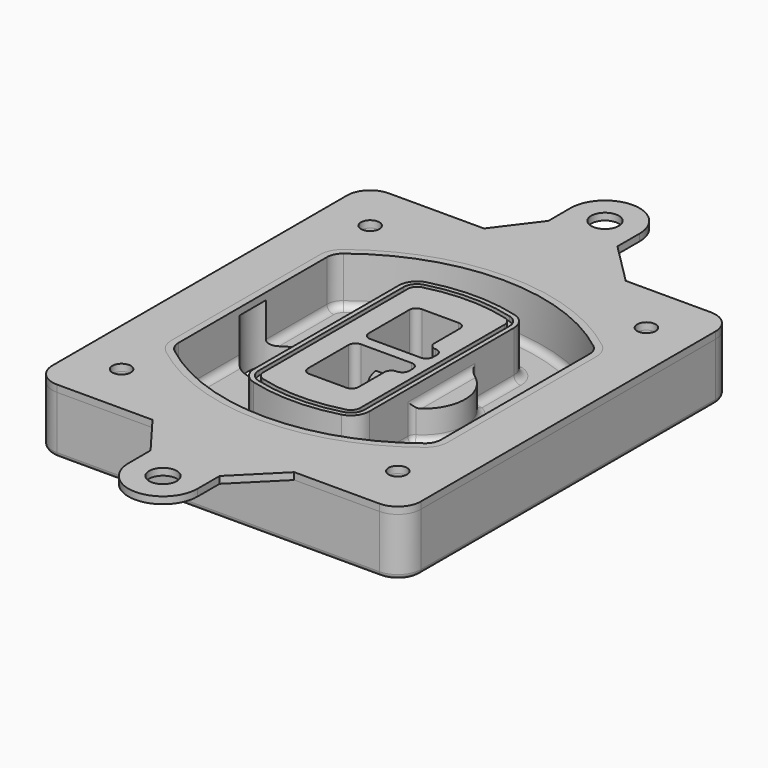
from build123d import *

# Parameters (mm, degrees)
F0_R      = 4
F1_DEPTH  = 25
F2_DEPTH  = 3
F3_DEPTH  = 18
F5_DEPTH  = 21
F6_DEPTH  = 2
F8_DEPTH  = 20
F9_DEPTH  = 16
F10_DEPTH = 25
F7_R      = 6
F7_R_2    = 4
F11_DEPTH = 6
F13_DEPTH = 9
F14_R     = 3
F15_R     = 2
F16_R     = 4
F16_R_2   = 6
F17_DEPTH = 3


with BuildPart() as f1:
    # F0 (on Top) → F1 (new body)
    with BuildSketch(Plane.XY):
        with BuildLine():
            ThreePointArc((-80, -80), (-77.0710678119, -87.0710678119), (-70, -90))
            Line((-70, -90), (70, -90))
            ThreePointArc((70, -90), (77.0710678119, -87.0710678119), (80, -80))
            Line((80, -80), (80, 80))
            ThreePointArc((80, 80), (77.0710678119, 87.0710678119), (70, 90))
            Line((70, 90), (-70, 90))
            ThreePointArc((-70, 90), (-77.0710678119, 87.0710678119), (-80, 80))
            Line((-80, 80), (-80, -80))
        make_face()
        with Locations((-60, -67.5)):
            Circle(F0_R, mode=Mode.SUBTRACT)
        with Locations((60, -67.5)):
            Circle(F0_R, mode=Mode.SUBTRACT)
        with Locations((-60, 67.5)):
            Circle(F0_R, mode=Mode.SUBTRACT)
        with BuildLine():
            ThreePointArc((-64, 40.2934422872), (-62.5820384798, 46.4328484224), (-58.6153846154, 51.3286200352))
            ThreePointArc((-58.6153846154, 51.3286200352), (0, 71.5), (58.6153846154, 51.3286200352))
            ThreePointArc((58.6153846154, 51.3286200352), (62.5820384798, 46.4328484224), (64, 40.2934422872))
            Line((64, 40.2934422872), (64, -40.2934422872))
            ThreePointArc((64, -40.2934422872), (62.5820384798, -46.4328484224), (58.6153846154, -51.3286200352))
            ThreePointArc((58.6153846154, -51.3286200352), (0, -71.5), (-58.6153846154, -51.3286200352))
            ThreePointArc((-58.6153846154, -51.3286200352), (-62.5820384798, -46.4328484224), (-64, -40.2934422872))
            Line((-64, -40.2934422872), (-64, 40.2934422872))
        make_face(mode=Mode.SUBTRACT)
        with Locations((60, 67.5)):
            Circle(F0_R, mode=Mode.SUBTRACT)
        with BuildLine():
            ThreePointArc((58.6153846154, 51.3286200352), (0, 71.5), (-58.6153846154, 51.3286200352))
            ThreePointArc((-58.6153846154, 51.3286200352), (-62.5820384798, 46.4328484224), (-64, 40.2934422872))
            Line((-64, 40.2934422872), (-64, -40.2934422872))
            ThreePointArc((-64, -40.2934422872), (-62.5820384798, -46.4328484224), (-58.6153846154, -51.3286200352))
            ThreePointArc((-58.6153846154, -51.3286200352), (0, -71.5), (58.6153846154, -51.3286200352))
            ThreePointArc((58.6153846154, -51.3286200352), (62.5820384798, -46.4328484224), (64, -40.2934422872))
            Line((64, -40.2934422872), (64, 40.2934422872))
            ThreePointArc((64, 40.2934422872), (62.5820384798, 46.4328484224), (58.6153846154, 51.3286200352))
        make_face()
        with BuildLine():
            Line((-60, -40.2934422872), (-60, 40.2934422872))
            ThreePointArc((-60, 40.2934422872), (-58.9871703427, 44.6787323838), (-56.1538461538, 48.1757121072))
            ThreePointArc((-56.1538461538, 48.1757121072), (0, 67.5), (56.1538461538, 48.1757121072))
            ThreePointArc((56.1538461538, 48.1757121072), (58.9871703427, 44.6787323838), (60, 40.2934422872))
            Line((60, 40.2934422872), (60, -40.2934422872))
            ThreePointArc((60, -40.2934422872), (58.9871703427, -44.6787323838), (56.1538461538, -48.1757121072))
            ThreePointArc((56.1538461538, -48.1757121072), (0, -67.5), (-56.1538461538, -48.1757121072))
            ThreePointArc((-56.1538461538, -48.1757121072), (-58.9871703427, -44.6787323838), (-60, -40.2934422872))
        make_face(mode=Mode.SUBTRACT)
        with BuildLine():
            ThreePointArc((-56.1538461538, 48.1757121072), (-58.9871703427, 44.6787323838), (-60, 40.2934422872))
            Line((-60, 40.2934422872), (-60, -40.2934422872))
            ThreePointArc((-60, -40.2934422872), (-58.9871703427, -44.6787323838), (-56.1538461538, -48.1757121072))
            ThreePointArc((-56.1538461538, -48.1757121072), (0, -67.5), (56.1538461538, -48.1757121072))
            ThreePointArc((56.1538461538, -48.1757121072), (58.9871703427, -44.6787323838), (60, -40.2934422872))
            Line((60, -40.2934422872), (60, 40.2934422872))
            ThreePointArc((60, 40.2934422872), (58.9871703427, 44.6787323838), (56.1538461538, 48.1757121072))
            ThreePointArc((56.1538461538, 48.1757121072), (0, 67.5), (-56.1538461538, 48.1757121072))
        make_face()
        with BuildLine():
            ThreePointArc((54.3076923077, 45.8110311612), (56.2910192399, 43.3631453548), (57, 40.2934422872))
            Line((57, 40.2934422872), (57, -40.2934422872))
            ThreePointArc((57, -40.2934422872), (56.2910192399, -43.3631453548), (54.3076923077, -45.8110311612))
            ThreePointArc((54.3076923077, -45.8110311612), (0, -64.5), (-54.3076923077, -45.8110311612))
            ThreePointArc((-54.3076923077, -45.8110311612), (-56.2910192399, -43.3631453548), (-57, -40.2934422872))
            Line((-57, -40.2934422872), (-57, 40.2934422872))
            ThreePointArc((-57, 40.2934422872), (-56.2910192399, 43.3631453548), (-54.3076923077, 45.8110311612))
            ThreePointArc((-54.3076923077, 45.8110311612), (0, 64.5), (54.3076923077, 45.8110311612))
        make_face(mode=Mode.SUBTRACT)
        with BuildLine():
            Line((57, -40.2934422872), (57, 40.2934422872))
            ThreePointArc((57, 40.2934422872), (56.2910192399, 43.3631453548), (54.3076923077, 45.8110311612))
            ThreePointArc((54.3076923077, 45.8110311612), (0, 64.5), (-54.3076923077, 45.8110311612))
            ThreePointArc((-54.3076923077, 45.8110311612), (-56.2910192399, 43.3631453548), (-57, 40.2934422872))
            Line((-57, 40.2934422872), (-57, -40.2934422872))
            ThreePointArc((-57, -40.2934422872), (-56.2910192399, -43.3631453548), (-54.3076923077, -45.8110311612))
            ThreePointArc((-54.3076923077, -45.8110311612), (0, -64.5), (54.3076923077, -45.8110311612))
            ThreePointArc((54.3076923077, -45.8110311612), (56.2910192399, -43.3631453548), (57, -40.2934422872))
        make_face()
    extrude(amount=-F1_DEPTH)

    # F0 (on Top) → F2 (join)
    with BuildSketch(Plane.XY):
        with BuildLine():
            ThreePointArc((-56.1538461538, 48.1757121072), (-58.9871703427, 44.6787323838), (-60, 40.2934422872))
            Line((-60, 40.2934422872), (-60, -40.2934422872))
            ThreePointArc((-60, -40.2934422872), (-58.9871703427, -44.6787323838), (-56.1538461538, -48.1757121072))
            ThreePointArc((-56.1538461538, -48.1757121072), (0, -67.5), (56.1538461538, -48.1757121072))
            ThreePointArc((56.1538461538, -48.1757121072), (58.9871703427, -44.6787323838), (60, -40.2934422872))
            Line((60, -40.2934422872), (60, 40.2934422872))
            ThreePointArc((60, 40.2934422872), (58.9871703427, 44.6787323838), (56.1538461538, 48.1757121072))
            ThreePointArc((56.1538461538, 48.1757121072), (0, 67.5), (-56.1538461538, 48.1757121072))
        make_face()
        with BuildLine():
            ThreePointArc((54.3076923077, 45.8110311612), (56.2910192399, 43.3631453548), (57, 40.2934422872))
            Line((57, 40.2934422872), (57, -40.2934422872))
            ThreePointArc((57, -40.2934422872), (56.2910192399, -43.3631453548), (54.3076923077, -45.8110311612))
            ThreePointArc((54.3076923077, -45.8110311612), (0, -64.5), (-54.3076923077, -45.8110311612))
            ThreePointArc((-54.3076923077, -45.8110311612), (-56.2910192399, -43.3631453548), (-57, -40.2934422872))
            Line((-57, -40.2934422872), (-57, 40.2934422872))
            ThreePointArc((-57, 40.2934422872), (-56.2910192399, 43.3631453548), (-54.3076923077, 45.8110311612))
            ThreePointArc((-54.3076923077, 45.8110311612), (0, 64.5), (54.3076923077, 45.8110311612))
        make_face(mode=Mode.SUBTRACT)
    extrude(amount=F2_DEPTH)

    # F0 (on Top) → F3 (cut)
    with BuildSketch(Plane.XY):
        with BuildLine():
            Line((57, -40.2934422872), (57, 40.2934422872))
            ThreePointArc((57, 40.2934422872), (56.2910192399, 43.3631453548), (54.3076923077, 45.8110311612))
            ThreePointArc((54.3076923077, 45.8110311612), (0, 64.5), (-54.3076923077, 45.8110311612))
            ThreePointArc((-54.3076923077, 45.8110311612), (-56.2910192399, 43.3631453548), (-57, 40.2934422872))
            Line((-57, 40.2934422872), (-57, -40.2934422872))
            ThreePointArc((-57, -40.2934422872), (-56.2910192399, -43.3631453548), (-54.3076923077, -45.8110311612))
            ThreePointArc((-54.3076923077, -45.8110311612), (0, -64.5), (54.3076923077, -45.8110311612))
            ThreePointArc((54.3076923077, -45.8110311612), (56.2910192399, -43.3631453548), (57, -40.2934422872))
        make_face()
    extrude(amount=-F3_DEPTH, mode=Mode.SUBTRACT)

    # F4 (on face) → F5 (join, through all)
    with BuildSketch(Plane.XY.offset(3)):
        with BuildLine():
            ThreePointArc((-25, -39.2465276821), (-23.3511545998, -44.1109737193), (-19.0842911877, -46.9702398883))
            ThreePointArc((-19.0842911877, -46.9702398883), (0, -49.5), (19.0842911877, -46.9702398883))
            ThreePointArc((19.0842911877, -46.9702398883), (23.3511545998, -44.1109737193), (25, -39.2465276821))
            Line((25, -39.2465276821), (25, 39.2465276821))
            ThreePointArc((25, 39.2465276821), (23.3511545998, 44.1109737193), (19.0842911877, 46.9702398883))
            ThreePointArc((19.0842911877, 46.9702398883), (0, 49.5), (-19.0842911877, 46.9702398883))
            ThreePointArc((-19.0842911877, 46.9702398883), (-23.3511545998, 44.1109737193), (-25, 39.2465276821))
            Line((-25, 39.2465276821), (-25, -39.2465276821))
        make_face()
        with BuildLine():
            ThreePointArc((18.5632183908, 45.0393118368), (21.7633659499, 42.89486221), (23, 39.2465276821))
            Line((23, 39.2465276821), (23, -39.2465276821))
            ThreePointArc((23, -39.2465276821), (21.7633659499, -42.89486221), (18.5632183908, -45.0393118368))
            ThreePointArc((18.5632183908, -45.0393118368), (0, -47.5), (-18.5632183908, -45.0393118368))
            ThreePointArc((-18.5632183908, -45.0393118368), (-21.7633659499, -42.89486221), (-23, -39.2465276821))
            Line((-23, -39.2465276821), (-23, 39.2465276821))
            ThreePointArc((-23, 39.2465276821), (-21.7633659499, 42.89486221), (-18.5632183908, 45.0393118368))
            ThreePointArc((-18.5632183908, 45.0393118368), (0, 47.5), (18.5632183908, 45.0393118368))
        make_face(mode=Mode.SUBTRACT)
        with BuildLine():
            Line((23, -39.2465276821), (23, 39.2465276821))
            ThreePointArc((23, 39.2465276821), (21.7633659499, 42.89486221), (18.5632183908, 45.0393118368))
            ThreePointArc((18.5632183908, 45.0393118368), (0, 47.5), (-18.5632183908, 45.0393118368))
            ThreePointArc((-18.5632183908, 45.0393118368), (-21.7633659499, 42.89486221), (-23, 39.2465276821))
            Line((-23, 39.2465276821), (-23, -39.2465276821))
            ThreePointArc((-23, -39.2465276821), (-21.7633659499, -42.89486221), (-18.5632183908, -45.0393118368))
            ThreePointArc((-18.5632183908, -45.0393118368), (0, -47.5), (18.5632183908, -45.0393118368))
            ThreePointArc((18.5632183908, -45.0393118368), (21.7633659499, -42.89486221), (23, -39.2465276821))
        make_face()
        with BuildLine():
            ThreePointArc((18.0421455939, 43.1083837852), (20.1755772999, 41.6787507007), (21, 39.2465276821))
            Line((21, 39.2465276821), (21, -39.2465276821))
            ThreePointArc((21, -39.2465276821), (20.1755772999, -41.6787507007), (18.0421455939, -43.1083837852))
            ThreePointArc((18.0421455939, -43.1083837852), (0, -45.5), (-18.0421455939, -43.1083837852))
            ThreePointArc((-18.0421455939, -43.1083837852), (-20.1755772999, -41.6787507007), (-21, -39.2465276821))
            Line((-21, -39.2465276821), (-21, 39.2465276821))
            ThreePointArc((-21, 39.2465276821), (-20.1755772999, 41.6787507007), (-18.0421455939, 43.1083837852))
            ThreePointArc((-18.0421455939, 43.1083837852), (0, 45.5), (18.0421455939, 43.1083837852))
        make_face(mode=Mode.SUBTRACT)
        with BuildLine():
            Line((21, -39.2465276821), (21, 39.2465276821))
            ThreePointArc((21, 39.2465276821), (20.1755772999, 41.6787507007), (18.0421455939, 43.1083837852))
            ThreePointArc((18.0421455939, 43.1083837852), (0, 45.5), (-18.0421455939, 43.1083837852))
            ThreePointArc((-18.0421455939, 43.1083837852), (-20.1755772999, 41.6787507007), (-21, 39.2465276821))
            Line((-21, 39.2465276821), (-21, -39.2465276821))
            ThreePointArc((-21, -39.2465276821), (-20.1755772999, -41.6787507007), (-18.0421455939, -43.1083837852))
            ThreePointArc((-18.0421455939, -43.1083837852), (0, -45.5), (18.0421455939, -43.1083837852))
            ThreePointArc((18.0421455939, -43.1083837852), (20.1755772999, -41.6787507007), (21, -39.2465276821))
        make_face()
        with BuildLine():
            Line((-8, -2.5), (14, -2.5))
            ThreePointArc((14, -2.5), (16.1213203436, -3.3786796564), (17, -5.5))
            Line((17, -5.5), (17, -7.5))
            ThreePointArc((17, -7.5), (16.1213203436, -9.6213203436), (14, -10.5))
            ThreePointArc((14, -10.5), (11.8786796564, -11.3786796564), (11, -13.5))
            Line((11, -13.5), (11, -27.5))
            ThreePointArc((11, -27.5), (10.1213203436, -29.6213203436), (8, -30.5))
            Line((8, -30.5), (-8, -30.5))
            ThreePointArc((-8, -30.5), (-10.1213203436, -29.6213203436), (-11, -27.5))
            Line((-11, -27.5), (-11, -5.5))
            ThreePointArc((-11, -5.5), (-10.1213203436, -3.3786796564), (-8, -2.5))
        make_face(mode=Mode.SUBTRACT)
        with BuildLine():
            ThreePointArc((-8, 2.5), (-10.1213203436, 3.3786796564), (-11, 5.5))
            Line((-11, 5.5), (-11, 27.5))
            ThreePointArc((-11, 27.5), (-10.1213203436, 29.6213203436), (-8, 30.5))
            Line((-8, 30.5), (8, 30.5))
            ThreePointArc((8, 30.5), (10.1213203436, 29.6213203436), (11, 27.5))
            Line((11, 27.5), (11, 13.5))
            ThreePointArc((11, 13.5), (11.8786796564, 11.3786796564), (14, 10.5))
            ThreePointArc((14, 10.5), (16.1213203436, 9.6213203436), (17, 7.5))
            Line((17, 7.5), (17, 5.5))
            ThreePointArc((17, 5.5), (16.1213203436, 3.3786796564), (14, 2.5))
            Line((14, 2.5), (-8, 2.5))
        make_face(mode=Mode.SUBTRACT)
    extrude(amount=-F5_DEPTH)

    # F4 (on face) → F6 (cut)
    with BuildSketch(Plane.XY.offset(3)):
        with BuildLine():
            Line((23, -39.2465276821), (23, 39.2465276821))
            ThreePointArc((23, 39.2465276821), (21.7633659499, 42.89486221), (18.5632183908, 45.0393118368))
            ThreePointArc((18.5632183908, 45.0393118368), (0, 47.5), (-18.5632183908, 45.0393118368))
            ThreePointArc((-18.5632183908, 45.0393118368), (-21.7633659499, 42.89486221), (-23, 39.2465276821))
            Line((-23, 39.2465276821), (-23, -39.2465276821))
            ThreePointArc((-23, -39.2465276821), (-21.7633659499, -42.89486221), (-18.5632183908, -45.0393118368))
            ThreePointArc((-18.5632183908, -45.0393118368), (0, -47.5), (18.5632183908, -45.0393118368))
            ThreePointArc((18.5632183908, -45.0393118368), (21.7633659499, -42.89486221), (23, -39.2465276821))
        make_face()
        with BuildLine():
            ThreePointArc((18.0421455939, 43.1083837852), (20.1755772999, 41.6787507007), (21, 39.2465276821))
            Line((21, 39.2465276821), (21, -39.2465276821))
            ThreePointArc((21, -39.2465276821), (20.1755772999, -41.6787507007), (18.0421455939, -43.1083837852))
            ThreePointArc((18.0421455939, -43.1083837852), (0, -45.5), (-18.0421455939, -43.1083837852))
            ThreePointArc((-18.0421455939, -43.1083837852), (-20.1755772999, -41.6787507007), (-21, -39.2465276821))
            Line((-21, -39.2465276821), (-21, 39.2465276821))
            ThreePointArc((-21, 39.2465276821), (-20.1755772999, 41.6787507007), (-18.0421455939, 43.1083837852))
            ThreePointArc((-18.0421455939, 43.1083837852), (0, 45.5), (18.0421455939, 43.1083837852))
        make_face(mode=Mode.SUBTRACT)
    extrude(amount=-F6_DEPTH, mode=Mode.SUBTRACT)

    # F7 (on face) → F8 (join)
    with BuildSketch(Plane(origin=(0, 0, -25), x_dir=(1, 0, 0), z_dir=(0, 0, -1))):
        with BuildLine():
            ThreePointArc((3.28842436, 0), (16.7567035675, 13.4682792075), (30.224982775, 0))
            Line((30.224982775, 0), (35.224982775, 0))
            ThreePointArc((35.224982775, 0), (16.7567035675, 18.4682792075), (-1.71157564, 0))
            Line((-1.71157564, 0), (3.28842436, 0))
        make_face()
        with BuildLine():
            Line((3.28842436, 0), (30.224982775, 0))
            ThreePointArc((30.224982775, 0), (16.7567035675, 13.4682792075), (3.28842436, 0))
        make_face()
        with BuildLine():
            ThreePointArc((3.28842436, 0), (16.7567035675, -13.4682792075), (30.224982775, 0))
            Line((30.224982775, 0), (3.28842436, 0))
        make_face()
        with BuildLine():
            Line((35.224982775, 0), (30.224982775, 0))
            ThreePointArc((30.224982775, 0), (16.7567035675, -13.4682792075), (3.28842436, 0))
            Line((3.28842436, 0), (-1.71157564, 0))
            ThreePointArc((-1.71157564, 0), (16.7567035675, -18.4682792075), (35.224982775, 0))
        make_face()
    extrude(amount=-F8_DEPTH)

    # F7 (on face) → F9 (cut)
    with BuildSketch(Plane(origin=(0, 0, -25), x_dir=(1, 0, 0), z_dir=(0, 0, -1))):
        with BuildLine():
            Line((3.28842436, 0), (30.224982775, 0))
            ThreePointArc((30.224982775, 0), (16.7567035675, 13.4682792075), (3.28842436, 0))
        make_face()
        with BuildLine():
            ThreePointArc((3.28842436, 0), (16.7567035675, -13.4682792075), (30.224982775, 0))
            Line((30.224982775, 0), (3.28842436, 0))
        make_face()
    extrude(amount=-F9_DEPTH, mode=Mode.SUBTRACT)

    # F7 (on face) → F10 (cut)
    with BuildSketch(Plane(origin=(0, 0, -25), x_dir=(1, 0, 0), z_dir=(0, 0, -1))):
        with BuildLine():
            Line((-59.0318229325, 0), (-32.0952645175, 0))
            ThreePointArc((-32.0952645175, 0), (-45.563543725, 13.4682792075), (-59.0318229325, 0))
        make_face()
        with BuildLine():
            ThreePointArc((-59.0318229325, 0), (-45.563543725, -13.4682792075), (-32.0952645175, 0))
            Line((-32.0952645175, 0), (-59.0318229325, 0))
        make_face()
    extrude(amount=-F10_DEPTH, mode=Mode.SUBTRACT)

    # F7 (on face) → F11 (cut)
    with BuildSketch(Plane(origin=(0, 0, -25), x_dir=(1, 0, 0), z_dir=(0, 0, -1))):
        with Locations((60, -67.5)):
            Circle(F7_R)
        with Locations((60, -67.5)):
            Circle(F7_R_2, mode=Mode.SUBTRACT)
        with Locations((60, -67.5)):
            Circle(F7_R)
        with Locations((60, -67.5)):
            Circle(F7_R_2, mode=Mode.SUBTRACT)
        with Locations((-60, -67.5)):
            Circle(F7_R)
        with Locations((-60, -67.5)):
            Circle(F7_R_2, mode=Mode.SUBTRACT)
        with Locations((-60, -67.5)):
            Circle(F7_R)
        with Locations((-60, -67.5)):
            Circle(F7_R_2, mode=Mode.SUBTRACT)
        with Locations((-60, 67.5)):
            Circle(F7_R)
        with Locations((-60, 67.5)):
            Circle(F7_R_2, mode=Mode.SUBTRACT)
        with Locations((-60, 67.5)):
            Circle(F7_R)
        with Locations((-60, 67.5)):
            Circle(F7_R_2, mode=Mode.SUBTRACT)
        with Locations((60, 67.5)):
            Circle(F7_R)
        with Locations((60, 67.5)):
            Circle(F7_R_2, mode=Mode.SUBTRACT)
        with Locations((60, 67.5)):
            Circle(F7_R)
        with Locations((60, 67.5)):
            Circle(F7_R_2, mode=Mode.SUBTRACT)
    extrude(amount=-F11_DEPTH, mode=Mode.SUBTRACT)

    # F12 (on face) → F13 (cut, through all)
    with BuildSketch(Plane(origin=(0, 0, -9), x_dir=(1, 0, 0), z_dir=(0, 0, -1))):
        with BuildLine():
            Line((11, 13.5), (11, 17.5481537753))
            ThreePointArc((11, 17.5481537753), (2.5696536419, 11.8239143813), (-1.5415842455, 2.5))
            Line((-1.5415842455, 2.5), (3.5224848595, 2.5))
            ThreePointArc((3.5224848595, 2.5), (6.1857188154, 8.3455872281), (11.2536447004, 12.2927168648))
            ThreePointArc((11.2536447004, 12.2927168648), (11.0640958889, 12.8831798879), (11, 13.5))
        make_face()
        with BuildLine():
            ThreePointArc((11.2536447004, -12.2927168648), (6.1857188154, -8.3455872281), (3.5224848595, -2.5))
            Line((3.5224848595, -2.5), (-1.5415842455, -2.5))
            ThreePointArc((-1.5415842455, -2.5), (2.5696536419, -11.8239143813), (11, -17.5481537753))
            Line((11, -17.5481537753), (11, -13.5))
            ThreePointArc((11, -13.5), (11.0640958889, -12.8831798879), (11.2536447004, -12.2927168648))
        make_face()
        with BuildLine():
            ThreePointArc((11.2536447004, 12.2927168648), (6.1857188154, 8.3455872281), (3.5224848595, 2.5))
            Line((3.5224848595, 2.5), (14, 2.5))
            ThreePointArc((14, 2.5), (16.1213203436, 3.3786796564), (17, 5.5))
            Line((17, 5.5), (17, 7.5))
            ThreePointArc((17, 7.5), (16.1213203436, 9.6213203436), (14, 10.5))
            ThreePointArc((14, 10.5), (12.3601599782, 10.9878446101), (11.2536447004, 12.2927168648))
        make_face()
        with BuildLine():
            Line((14, -2.5), (3.5224848595, -2.5))
            ThreePointArc((3.5224848595, -2.5), (6.1857188154, -8.3455872281), (11.2536447004, -12.2927168648))
            ThreePointArc((11.2536447004, -12.2927168648), (12.3601599782, -10.9878446101), (14, -10.5))
            ThreePointArc((14, -10.5), (16.1213203436, -9.6213203436), (17, -7.5))
            Line((17, -7.5), (17, -5.5))
            ThreePointArc((17, -5.5), (16.1213203436, -3.3786796564), (14, -2.5))
        make_face()
    extrude(amount=F13_DEPTH, mode=Mode.SUBTRACT)

    # F14
    f14_edges = [f1.edges().sort_by_distance(p)[0] for p in [
        (-57, -23.703476, -18),
        (-57, 23.703476, -18),
        (25, 0, -5),
        (25, 16.526506, -11.5),
        (25, -16.526506, -11.5),
        (25, -27.886517, -18),
        (35.224983, 0, -18),
    ]]
    fillet(f14_edges, radius=F14_R)

    # F15
    f15_edges = [f1.edges().sort_by_distance(p)[0] for p in [
        (0, -90, -25),
    ]]
    fillet(f15_edges, radius=F15_R)


with BuildPart() as f17:
    # F16 (on face) → F17 (new body, through all)
    with BuildSketch(Plane.XY):
        with BuildLine():
            Line((-28.5584991463, 90), (-70, 90))
            ThreePointArc((-70, 90), (-77.0710678119, 87.0710678119), (-80, 80))
            Line((-80, 80), (-80, -80))
            ThreePointArc((-80, -80), (-77.0710678119, -87.0710678119), (-70, -90))
            Line((-70, -90), (-28.5584991463, -90))
            Line((-28.5584991463, -90), (33, -90))
            Line((33, -90), (70, -90))
            ThreePointArc((70, -90), (77.0710678119, -87.0710678119), (80, -80))
            Line((80, -80), (80, 80))
            ThreePointArc((80, 80), (77.0710678119, 87.0710678119), (70, 90))
            Line((70, 90), (33, 90))
            Line((33, 90), (-28.5584991463, 90))
        make_face()
        with Locations((-60, -67.5)):
            Circle(F16_R, mode=Mode.SUBTRACT)
        with Locations((60, -67.5)):
            Circle(F16_R, mode=Mode.SUBTRACT)
        with Locations((-60, 67.5)):
            Circle(F16_R, mode=Mode.SUBTRACT)
        with BuildLine():
            ThreePointArc((56.1538461538, 48.1757121072), (58.9871703427, 44.6787323838), (60, 40.2934422872))
            Line((60, 40.2934422872), (60, -40.2934422872))
            ThreePointArc((60, -40.2934422872), (58.9871703427, -44.6787323838), (56.1538461538, -48.1757121072))
            ThreePointArc((56.1538461538, -48.1757121072), (0, -67.5), (-56.1538461538, -48.1757121072))
            ThreePointArc((-56.1538461538, -48.1757121072), (-58.9871703427, -44.6787323838), (-60, -40.2934422872))
            Line((-60, -40.2934422872), (-60, 40.2934422872))
            ThreePointArc((-60, 40.2934422872), (-58.9871703427, 44.6787323838), (-56.1538461538, 48.1757121072))
            ThreePointArc((-56.1538461538, 48.1757121072), (0, 67.5), (56.1538461538, 48.1757121072))
        make_face(mode=Mode.SUBTRACT)
        with Locations((60, 67.5)):
            Circle(F16_R, mode=Mode.SUBTRACT)
        with BuildLine():
            Line((-15, 108), (-28.5584991463, 90))
            Line((-28.5584991463, 90), (33, 90))
            Line((33, 90), (15, 108))
            Line((15, 108), (15, 120))
            ThreePointArc((15, 120), (0, 135), (-15, 120))
            Line((-15, 120), (-15, 108))
        make_face()
        with Locations((0, 120)):
            Circle(F16_R_2, mode=Mode.SUBTRACT)
        with BuildLine():
            Line((33, -90), (-28.5584991463, -90))
            Line((-28.5584991463, -90), (-15, -108))
            Line((-15, -108), (-15, -120))
            ThreePointArc((-15, -120), (0, -135), (15, -120))
            Line((15, -120), (15, -108))
            Line((15, -108), (33, -90))
        make_face()
        with Locations((0, -120)):
            Circle(F16_R_2, mode=Mode.SUBTRACT)
    extrude(amount=F17_DEPTH)


solid = Compound([f1.part, f17.part])
